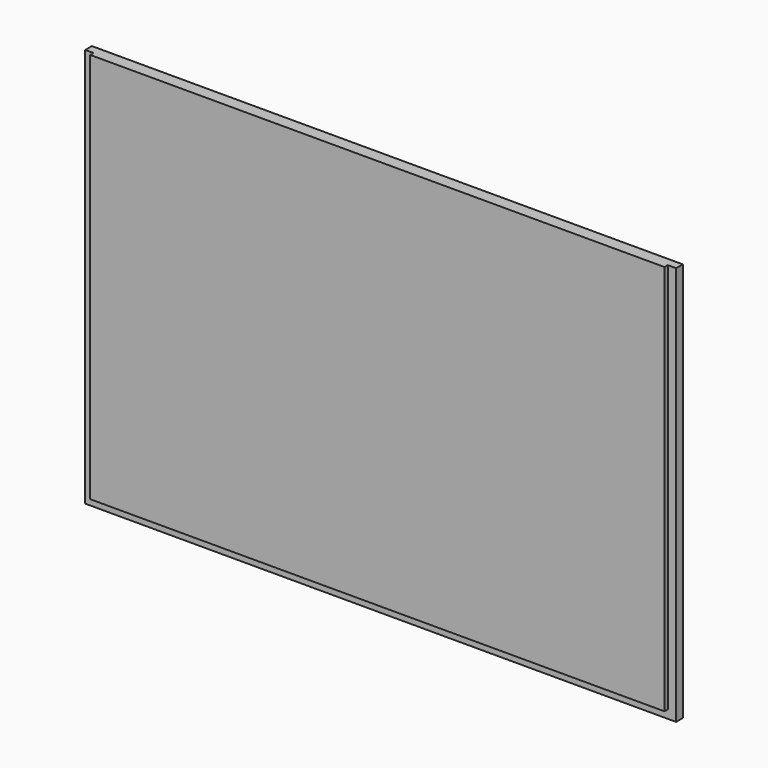
from build123d import *

# Parameters (mm, degrees)
F0_W     = 901.7
F0_H     = 609.6
F1_DEPTH = 19.05
F2_W     = 12.7
F2_H     = 6.35
F3_DEPTH = 609.601
F4_W     = 6.35
F4_H     = 12.7
F5_DEPTH = 901.701


with BuildPart() as f1:
    # F0 (on Front) → F1 (new body)
    with BuildSketch(Plane.XZ):
        with Locations((450.85, 304.8)):
            Rectangle(F0_W, F0_H)
    extrude(amount=F1_DEPTH)

    # F2 (on face) → F3 (cut, through all)
    with BuildSketch(Plane.XY.offset(609.6)):
        with Locations((895.35, -15.875)):
            Rectangle(F2_W, F2_H)
        with Locations((6.35, -15.875)):
            Rectangle(F2_W, F2_H)
    extrude(amount=-F3_DEPTH, mode=Mode.SUBTRACT)

    # F4 (on face) → F5 (cut, through all)
    with BuildSketch(Plane.YZ.offset(901.7)):
        with Locations((-15.875, 6.35)):
            Rectangle(F4_W, F4_H)
    extrude(amount=-F5_DEPTH, mode=Mode.SUBTRACT)


solid = f1.part
